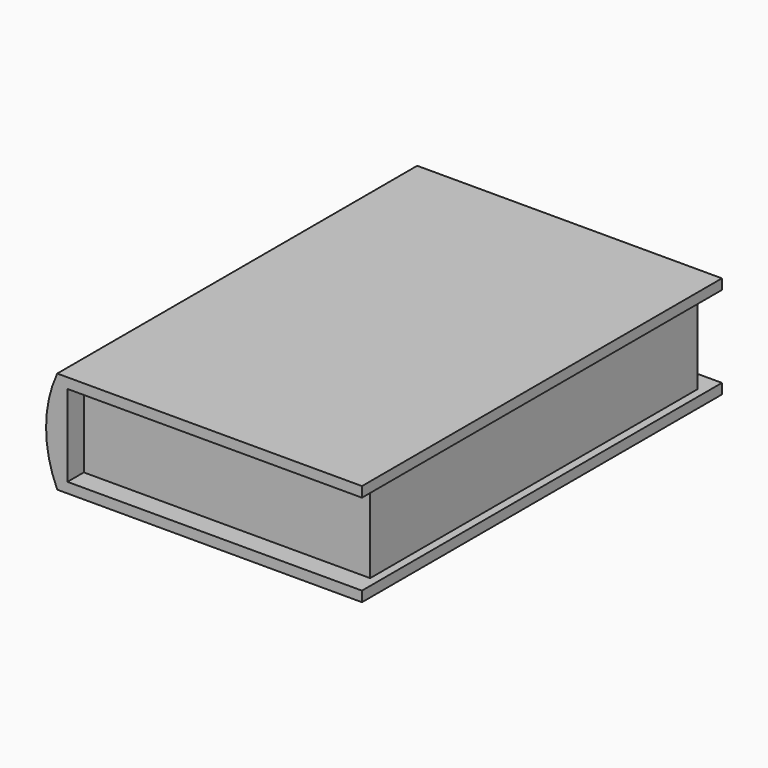
from build123d import *

# Parameters (mm, degrees)
F0_W     = 177.8
F0_H     = 254
F1_DEPTH = 50.8
F3_DEPTH = 139.7


with BuildPart() as f1:
    # F0 (on Top) → F1 (new body)
    with BuildSketch(Plane.XY):
        Rectangle(F0_W, F0_H)
    extrude(amount=F1_DEPTH)


with BuildPart() as f3:
    # F2 (on Front) → F3 (new body, symmetric)
    with BuildSketch(Plane.XZ):
        with BuildLine():
            Line((-95.25, -6.35), (-95.25, 57.15))
            ThreePointArc((-95.25, 57.15), (-102.179678, 25.4), (-95.25, -6.35))
        make_face()
        Polygon((88.9, 57.15), (-95.25, 57.15), (-95.25, -6.35), (88.9, -6.35), (93.98, -6.35), (93.98, 0), (88.9, 0), (-88.9, 0), (-88.9, 50.8), (88.9, 50.8), (93.98, 50.8), (93.98, 57.15), align=None)
    extrude(amount=F3_DEPTH, both=True)


solid = Compound([f1.part, f3.part])
